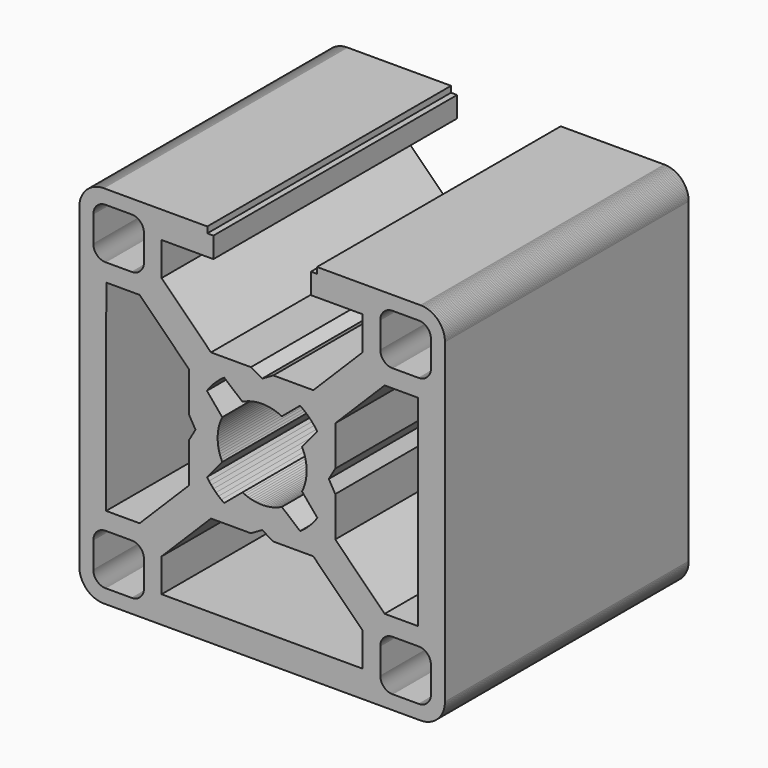
from build123d import *

# Parameters (mm, degrees)
F1_DEPTH = 25


with BuildPart() as f1:
    # F0 (on Front) → F1 (new body)
    with BuildSketch(Plane.XZ):
        Polygon((-15, -13), (-14.997986, -13.089729), (-14.991948, -13.179278), (-14.981899, -13.268467), (-14.967859, -13.357114), (-14.949856, -13.445042), (-14.927926, -13.532074), (-14.902113, -13.618034), (-14.87247, -13.702749), (-14.839056, -13.78605), (-14.801938, -13.867767), (-14.761191, -13.947738), (-14.716898, -14.025799), (-14.669147, -14.101794), (-14.618034, -14.17557), (-14.563663, -14.24698), (-14.506143, -14.315878), (-14.44559, -14.382125), (-14.382125, -14.44559), (-14.315878, -14.506143), (-14.24698, -14.563663), (-14.17557, -14.618034), (-14.101794, -14.669147), (-14.025799, -14.716898), (-13.947738, -14.761191), (-13.867767, -14.801938), (-13.78605, -14.839056), (-13.702749, -14.87247), (-13.618034, -14.902113), (-13.532074, -14.927926), (-13.445042, -14.949856), (-13.357114, -14.967859), (-13.268467, -14.981899), (-13.179278, -14.991948), (-13.089729, -14.997986), (-13, -15), (13, -15), (13.089729, -14.997986), (13.179278, -14.991948), (13.268467, -14.981899), (13.357114, -14.967859), (13.445042, -14.949856), (13.532074, -14.927926), (13.618034, -14.902113), (13.702749, -14.87247), (13.78605, -14.839056), (13.867767, -14.801938), (13.947738, -14.761191), (14.025799, -14.716898), (14.101794, -14.669147), (14.17557, -14.618034), (14.24698, -14.563663), (14.315878, -14.506143), (14.382125, -14.44559), (14.44559, -14.382125), (14.506143, -14.315878), (14.563663, -14.24698), (14.618034, -14.17557), (14.669147, -14.101794), (14.716898, -14.025799), (14.761191, -13.947738), (14.801938, -13.867767), (14.839056, -13.78605), (14.87247, -13.702749), (14.902113, -13.618034), (14.927926, -13.532074), (14.949856, -13.445042), (14.967859, -13.357114), (14.981899, -13.268467), (14.991948, -13.179278), (14.997986, -13.089729), (15, -13), (15, 13), (14.997986, 13.089729), (14.991948, 13.179278), (14.981899, 13.268467), (14.967859, 13.357114), (14.949856, 13.445042), (14.927926, 13.532074), (14.902113, 13.618034), (14.87247, 13.702749), (14.839056, 13.78605), (14.801938, 13.867767), (14.761191, 13.947738), (14.716898, 14.025799), (14.669147, 14.101794), (14.618034, 14.17557), (14.563663, 14.24698), (14.506143, 14.315878), (14.44559, 14.382125), (14.382125, 14.44559), (14.315878, 14.506143), (14.24698, 14.563663), (14.17557, 14.618034), (14.101794, 14.669147), (14.025799, 14.716898), (13.947738, 14.761191), (13.867767, 14.801938), (13.78605, 14.839056), (13.702749, 14.87247), (13.618034, 14.902113), (13.532074, 14.927926), (13.445042, 14.949856), (13.357114, 14.967859), (13.268467, 14.981899), (13.179278, 14.991948), (13.089729, 14.997986), (13, 15), (4.5, 15), (4.5, 14.5), (4, 14.5), (4, 12.8), (8.25, 12.803123), (8.25, 10.053123), (4.196877, 6), (0.919615, 6), (0, 5.46906), (-0.919615, 6), (-4.196877, 6), (-8.25, 10.053123), (-8.25, 12.803123), (-4, 12.8), (-4, 14.5), (-4.5, 14.5), (-4.5, 15), (-13, 15), (-13.089729, 14.997986), (-13.179278, 14.991948), (-13.268467, 14.981899), (-13.357114, 14.967859), (-13.445042, 14.949856), (-13.532074, 14.927926), (-13.618034, 14.902113), (-13.702749, 14.87247), (-13.78605, 14.839056), (-13.867767, 14.801938), (-13.947738, 14.761191), (-14.025799, 14.716898), (-14.101794, 14.669147), (-14.17557, 14.618034), (-14.24698, 14.563663), (-14.315878, 14.506143), (-14.382125, 14.44559), (-14.44559, 14.382125), (-14.506143, 14.315878), (-14.563663, 14.24698), (-14.618034, 14.17557), (-14.669147, 14.101794), (-14.716898, 14.025799), (-14.761191, 13.947738), (-14.801938, 13.867767), (-14.839056, 13.78605), (-14.87247, 13.702749), (-14.902113, 13.618034), (-14.927926, 13.532074), (-14.949856, 13.445042), (-14.967859, 13.357114), (-14.981899, 13.268467), (-14.991948, 13.179278), (-14.997986, 13.089729), (-15, 13), align=None)
        Polygon((-13.845974, -12.939639), (-13.848993, -12.894865), (-13.85, -12.85), (-13.85, -10.7), (-13.848993, -10.655135), (-13.845974, -10.610361), (-13.84095, -10.565766), (-13.83393, -10.521443), (-13.824928, -10.477479), (-13.813963, -10.433963), (-13.801057, -10.390983), (-13.786235, -10.348625), (-13.769527, -10.306975), (-13.750969, -10.266116), (-13.730596, -10.226131), (-13.708448, -10.1871), (-13.684573, -10.149103), (-13.659017, -10.112215), (-13.631831, -10.07651), (-13.603071, -10.042061), (-13.572795, -10.008937), (-13.541062, -9.977205), (-13.507938, -9.946929), (-13.47349, -9.918168), (-13.437785, -9.890983), (-13.400897, -9.865427), (-13.362899, -9.841551), (-13.323869, -9.819405), (-13.283884, -9.799031), (-13.243025, -9.780472), (-13.201375, -9.763765), (-13.159017, -9.748943), (-13.116036, -9.736037), (-13.072521, -9.725072), (-13.028557, -9.71607), (-12.984233, -9.70905), (-12.939639, -9.704025), (-12.894865, -9.701007), (-12.85, -9.7), (-10.7, -9.7), (-10.655135, -9.701007), (-10.610361, -9.704025), (-10.565766, -9.70905), (-10.521443, -9.71607), (-10.477479, -9.725072), (-10.433963, -9.736037), (-10.390983, -9.748943), (-10.348625, -9.763765), (-10.306975, -9.780472), (-10.266116, -9.799031), (-10.226131, -9.819405), (-10.1871, -9.841551), (-10.149103, -9.865427), (-10.112215, -9.890983), (-10.07651, -9.918168), (-10.042061, -9.946929), (-10.008937, -9.977205), (-9.977205, -10.008937), (-9.946929, -10.042061), (-9.918168, -10.07651), (-9.890983, -10.112215), (-9.865427, -10.149103), (-9.841551, -10.1871), (-9.819405, -10.226131), (-9.799031, -10.266116), (-9.780472, -10.306975), (-9.763765, -10.348625), (-9.748943, -10.390983), (-9.736037, -10.433963), (-9.725072, -10.477479), (-9.71607, -10.521443), (-9.70905, -10.565766), (-9.704025, -10.610361), (-9.701007, -10.655135), (-9.7, -10.7), (-9.7, -12.85), (-9.701007, -12.894865), (-9.704025, -12.939639), (-9.70905, -12.984233), (-9.71607, -13.028557), (-9.725072, -13.072521), (-9.736037, -13.116036), (-9.748943, -13.159017), (-9.763765, -13.201375), (-9.780472, -13.243025), (-9.799031, -13.283884), (-9.819405, -13.323869), (-9.841551, -13.362899), (-9.865427, -13.400897), (-9.890983, -13.437785), (-9.918168, -13.47349), (-9.946929, -13.507938), (-9.977205, -13.541062), (-10.008937, -13.572795), (-10.042061, -13.603071), (-10.07651, -13.631831), (-10.112215, -13.659017), (-10.149103, -13.684573), (-10.1871, -13.708448), (-10.226131, -13.730596), (-10.266116, -13.750969), (-10.306975, -13.769527), (-10.348625, -13.786235), (-10.390983, -13.801057), (-10.433963, -13.813963), (-10.477479, -13.824928), (-10.521443, -13.83393), (-10.565766, -13.84095), (-10.610361, -13.845974), (-10.655135, -13.848993), (-10.7, -13.85), (-12.85, -13.85), (-12.894865, -13.848993), (-12.939639, -13.845974), (-12.984233, -13.84095), (-13.028557, -13.83393), (-13.072521, -13.824928), (-13.116036, -13.813963), (-13.159017, -13.801057), (-13.201375, -13.786235), (-13.243025, -13.769527), (-13.283884, -13.750969), (-13.323869, -13.730596), (-13.362899, -13.708448), (-13.400897, -13.684573), (-13.437785, -13.659017), (-13.47349, -13.631831), (-13.507938, -13.603071), (-13.541062, -13.572795), (-13.572795, -13.541062), (-13.603071, -13.507938), (-13.631831, -13.47349), (-13.659017, -13.437785), (-13.684573, -13.400897), (-13.708448, -13.362899), (-13.730596, -13.323869), (-13.750969, -13.283884), (-13.769527, -13.243025), (-13.786235, -13.201375), (-13.801057, -13.159017), (-13.813963, -13.116036), (-13.824928, -13.072521), (-13.83393, -13.028557), (-13.84095, -12.984233), align=None, mode=Mode.SUBTRACT)
        Polygon((4.196877, -6), (8.25, -10.053123), (8.25, -12.803123), (-8.25, -12.790998), (-8.25, -10.053123), (-4.196877, -6), (-0.919615, -6), (0, -5.46906), (0.919615, -6), align=None, mode=Mode.SUBTRACT)
        Polygon((9.704025, -12.939639), (9.701007, -12.894865), (9.7, -12.85), (9.7, -10.7), (9.701007, -10.655135), (9.704025, -10.610361), (9.70905, -10.565766), (9.71607, -10.521443), (9.725072, -10.477479), (9.736037, -10.433963), (9.748943, -10.390983), (9.763765, -10.348625), (9.780472, -10.306975), (9.799031, -10.266116), (9.819405, -10.226131), (9.841551, -10.1871), (9.865427, -10.149103), (9.890983, -10.112215), (9.918168, -10.07651), (9.946929, -10.042061), (9.977205, -10.008937), (10.008937, -9.977205), (10.042061, -9.946929), (10.07651, -9.918168), (10.112215, -9.890983), (10.149103, -9.865427), (10.1871, -9.841551), (10.226131, -9.819405), (10.266116, -9.799031), (10.306975, -9.780472), (10.348625, -9.763765), (10.390983, -9.748943), (10.433963, -9.736037), (10.477479, -9.725072), (10.521443, -9.71607), (10.565766, -9.70905), (10.610361, -9.704025), (10.655135, -9.701007), (10.7, -9.7), (12.85, -9.7), (12.894865, -9.701007), (12.939639, -9.704025), (12.984233, -9.70905), (13.028557, -9.71607), (13.072521, -9.725072), (13.116036, -9.736037), (13.159017, -9.748943), (13.201375, -9.763765), (13.243025, -9.780472), (13.283884, -9.799031), (13.323869, -9.819405), (13.362899, -9.841551), (13.400897, -9.865427), (13.437785, -9.890983), (13.47349, -9.918168), (13.507938, -9.946929), (13.541062, -9.977205), (13.572795, -10.008937), (13.603071, -10.042061), (13.631831, -10.07651), (13.659017, -10.112215), (13.684573, -10.149103), (13.708448, -10.1871), (13.730596, -10.226131), (13.750969, -10.266116), (13.769527, -10.306975), (13.786235, -10.348625), (13.801057, -10.390983), (13.813963, -10.433963), (13.824928, -10.477479), (13.83393, -10.521443), (13.84095, -10.565766), (13.845974, -10.610361), (13.848993, -10.655135), (13.85, -10.7), (13.85, -12.85), (13.848993, -12.894865), (13.845974, -12.939639), (13.84095, -12.984233), (13.83393, -13.028557), (13.824928, -13.072521), (13.813963, -13.116036), (13.801057, -13.159017), (13.786235, -13.201375), (13.769527, -13.243025), (13.750969, -13.283884), (13.730596, -13.323869), (13.708448, -13.362899), (13.684573, -13.400897), (13.659017, -13.437785), (13.631831, -13.47349), (13.603071, -13.507938), (13.572795, -13.541062), (13.541062, -13.572795), (13.507938, -13.603071), (13.47349, -13.631831), (13.437785, -13.659017), (13.400897, -13.684573), (13.362899, -13.708448), (13.323869, -13.730596), (13.283884, -13.750969), (13.243025, -13.769527), (13.201375, -13.786235), (13.159017, -13.801057), (13.116036, -13.813963), (13.072521, -13.824928), (13.028557, -13.83393), (12.984233, -13.84095), (12.939639, -13.845974), (12.894865, -13.848993), (12.85, -13.85), (10.7, -13.85), (10.655135, -13.848993), (10.610361, -13.845974), (10.565766, -13.84095), (10.521443, -13.83393), (10.477479, -13.824928), (10.433963, -13.813963), (10.390983, -13.801057), (10.348625, -13.786235), (10.306975, -13.769527), (10.266116, -13.750969), (10.226131, -13.730596), (10.1871, -13.708448), (10.149103, -13.684573), (10.112215, -13.659017), (10.07651, -13.631831), (10.042061, -13.603071), (10.008937, -13.572795), (9.977205, -13.541062), (9.946929, -13.507938), (9.918168, -13.47349), (9.890983, -13.437785), (9.865427, -13.400897), (9.841551, -13.362899), (9.819405, -13.323869), (9.799031, -13.283884), (9.780472, -13.243025), (9.763765, -13.201375), (9.748943, -13.159017), (9.736037, -13.116036), (9.725072, -13.072521), (9.71607, -13.028557), (9.70905, -12.984233), align=None, mode=Mode.SUBTRACT)
        Polygon((-6, 0.919615), (-5.46906, 0), (-6, -0.919615), (-6, -4.196877), (-10.053123, -8.25), (-12.803123, -8.25), (-12.790998, 8.25), (-10.053123, 8.25), (-6, 4.196877), align=None, mode=Mode.SUBTRACT)
        Polygon((-13.845974, 10.610361), (-13.848993, 10.655135), (-13.85, 10.7), (-13.85, 12.85), (-13.848993, 12.894865), (-13.845974, 12.939639), (-13.84095, 12.984233), (-13.83393, 13.028557), (-13.824928, 13.072521), (-13.813963, 13.116036), (-13.801057, 13.159017), (-13.786235, 13.201375), (-13.769527, 13.243025), (-13.750969, 13.283884), (-13.730596, 13.323869), (-13.708448, 13.362899), (-13.684573, 13.400897), (-13.659017, 13.437785), (-13.631831, 13.47349), (-13.603071, 13.507938), (-13.572795, 13.541062), (-13.541062, 13.572795), (-13.507938, 13.603071), (-13.47349, 13.631831), (-13.437785, 13.659017), (-13.400897, 13.684573), (-13.362899, 13.708448), (-13.323869, 13.730596), (-13.283884, 13.750969), (-13.243025, 13.769527), (-13.201375, 13.786235), (-13.159017, 13.801057), (-13.116036, 13.813963), (-13.072521, 13.824928), (-13.028557, 13.83393), (-12.984233, 13.84095), (-12.939639, 13.845974), (-12.894865, 13.848993), (-12.85, 13.85), (-10.7, 13.85), (-10.655135, 13.848993), (-10.610361, 13.845974), (-10.565766, 13.84095), (-10.521443, 13.83393), (-10.477479, 13.824928), (-10.433963, 13.813963), (-10.390983, 13.801057), (-10.348625, 13.786235), (-10.306975, 13.769527), (-10.266116, 13.750969), (-10.226131, 13.730596), (-10.1871, 13.708448), (-10.149103, 13.684573), (-10.112215, 13.659017), (-10.07651, 13.631831), (-10.042061, 13.603071), (-10.008937, 13.572795), (-9.977205, 13.541062), (-9.946929, 13.507938), (-9.918168, 13.47349), (-9.890983, 13.437785), (-9.865427, 13.400897), (-9.841551, 13.362899), (-9.819405, 13.323869), (-9.799031, 13.283884), (-9.780472, 13.243025), (-9.763765, 13.201375), (-9.748943, 13.159017), (-9.736037, 13.116036), (-9.725072, 13.072521), (-9.71607, 13.028557), (-9.70905, 12.984233), (-9.704025, 12.939639), (-9.701007, 12.894865), (-9.7, 12.85), (-9.7, 10.7), (-9.701007, 10.655135), (-9.704025, 10.610361), (-9.70905, 10.565766), (-9.71607, 10.521443), (-9.725072, 10.477479), (-9.736037, 10.433963), (-9.748943, 10.390983), (-9.763765, 10.348625), (-9.780472, 10.306975), (-9.799031, 10.266116), (-9.819405, 10.226131), (-9.841551, 10.1871), (-9.865427, 10.149103), (-9.890983, 10.112215), (-9.918168, 10.07651), (-9.946929, 10.042061), (-9.977205, 10.008937), (-10.008937, 9.977205), (-10.042061, 9.946929), (-10.07651, 9.918168), (-10.112215, 9.890983), (-10.149103, 9.865427), (-10.1871, 9.841551), (-10.226131, 9.819405), (-10.266116, 9.799031), (-10.306975, 9.780472), (-10.348625, 9.763765), (-10.390983, 9.748943), (-10.433963, 9.736037), (-10.477479, 9.725072), (-10.521443, 9.71607), (-10.565766, 9.70905), (-10.610361, 9.704025), (-10.655135, 9.701007), (-10.7, 9.7), (-12.85, 9.7), (-12.894865, 9.701007), (-12.939639, 9.704025), (-12.984233, 9.70905), (-13.028557, 9.71607), (-13.072521, 9.725072), (-13.116036, 9.736037), (-13.159017, 9.748943), (-13.201375, 9.763765), (-13.243025, 9.780472), (-13.283884, 9.799031), (-13.323869, 9.819405), (-13.362899, 9.841551), (-13.400897, 9.865427), (-13.437785, 9.890983), (-13.47349, 9.918168), (-13.507938, 9.946929), (-13.541062, 9.977205), (-13.572795, 10.008937), (-13.603071, 10.042061), (-13.631831, 10.07651), (-13.659017, 10.112215), (-13.684573, 10.149103), (-13.708448, 10.1871), (-13.730596, 10.226131), (-13.750969, 10.266116), (-13.769527, 10.306975), (-13.786235, 10.348625), (-13.801057, 10.390983), (-13.813963, 10.433963), (-13.824928, 10.477479), (-13.83393, 10.521443), (-13.84095, 10.565766), align=None, mode=Mode.SUBTRACT)
        Polygon((-3.623419, -0.439702), (-3.640423, -0.264232), (-3.648936, -0.088146), (-3.648936, 0.088146), (-3.640423, 0.264232), (-3.623419, 0.439702), (-3.597961, 0.614146), (-3.564111, 0.787157), (-3.521945, 0.958332), (-3.471564, 1.127272), (-3.413085, 1.293582), (-3.346643, 1.456874), (-3.272394, 1.616767), (-4.531372, 3.117158), (-4.362428, 3.349511), (-4.181583, 3.572725), (-3.98933, 3.786192), (-3.786192, 3.98933), (-3.572725, 4.181583), (-3.349511, 4.362428), (-3.117158, 4.531372), (-1.616767, 3.272394), (-1.456874, 3.346643), (-1.293582, 3.413085), (-1.127272, 3.471564), (-0.958332, 3.521945), (-0.787157, 3.564111), (-0.614146, 3.597961), (-0.439702, 3.623419), (-0.264232, 3.640423), (-0.088146, 3.648936), (0.088146, 3.648936), (0.264232, 3.640423), (0.439702, 3.623419), (0.614146, 3.597961), (0.787157, 3.564111), (0.958332, 3.521945), (1.127272, 3.471564), (1.293582, 3.413085), (1.456874, 3.346643), (1.616767, 3.272394), (3.117158, 4.531372), (3.349511, 4.362428), (3.572725, 4.181583), (3.786192, 3.98933), (3.98933, 3.786192), (4.181583, 3.572725), (4.362428, 3.349511), (4.531372, 3.117158), (3.272394, 1.616767), (3.346643, 1.456874), (3.413085, 1.293582), (3.471564, 1.127272), (3.521945, 0.958332), (3.564111, 0.787157), (3.597961, 0.614146), (3.623419, 0.439702), (3.640423, 0.264232), (3.648936, 0.088146), (3.648936, -0.088146), (3.640423, -0.264232), (3.623419, -0.439702), (3.597961, -0.614146), (3.564111, -0.787157), (3.521945, -0.958332), (3.471564, -1.127272), (3.413085, -1.293582), (3.346643, -1.456874), (3.272394, -1.616767), (4.531372, -3.117158), (4.362428, -3.349511), (4.181583, -3.572725), (3.98933, -3.786192), (3.786192, -3.98933), (3.572725, -4.181583), (3.349511, -4.362428), (3.117158, -4.531372), (1.616767, -3.272394), (1.456874, -3.346643), (1.293582, -3.413085), (1.127272, -3.471564), (0.958332, -3.521945), (0.787157, -3.564111), (0.614146, -3.597961), (0.439702, -3.623419), (0.264232, -3.640423), (0.088146, -3.648936), (-0.088146, -3.648936), (-0.264232, -3.640423), (-0.439702, -3.623419), (-0.614146, -3.597961), (-0.787157, -3.564111), (-0.958332, -3.521945), (-1.127272, -3.471564), (-1.293582, -3.413085), (-1.456874, -3.346643), (-1.616767, -3.272394), (-3.117158, -4.531372), (-3.349511, -4.362428), (-3.572725, -4.181583), (-3.786192, -3.98933), (-3.98933, -3.786192), (-4.181583, -3.572725), (-4.362428, -3.349511), (-4.531372, -3.117158), (-3.272394, -1.616767), (-3.346643, -1.456874), (-3.413085, -1.293582), (-3.471564, -1.127272), (-3.521945, -0.958332), (-3.564111, -0.787157), (-3.597961, -0.614146), align=None, mode=Mode.SUBTRACT)
        Polygon((6, -4.196877), (6, -0.919615), (5.46906, 0), (6, 0.919615), (6, 4.196877), (10.053123, 8.25), (12.803123, 8.25), (12.790998, -8.25), (10.053123, -8.25), align=None, mode=Mode.SUBTRACT)
        Polygon((9.704025, 10.610361), (9.701007, 10.655135), (9.7, 10.7), (9.7, 12.85), (9.701007, 12.894865), (9.704025, 12.939639), (9.70905, 12.984233), (9.71607, 13.028557), (9.725072, 13.072521), (9.736037, 13.116036), (9.748943, 13.159017), (9.763765, 13.201375), (9.780472, 13.243025), (9.799031, 13.283884), (9.819405, 13.323869), (9.841551, 13.362899), (9.865427, 13.400897), (9.890983, 13.437785), (9.918168, 13.47349), (9.946929, 13.507938), (9.977205, 13.541062), (10.008937, 13.572795), (10.042061, 13.603071), (10.07651, 13.631831), (10.112215, 13.659017), (10.149103, 13.684573), (10.1871, 13.708448), (10.226131, 13.730596), (10.266116, 13.750969), (10.306975, 13.769527), (10.348625, 13.786235), (10.390983, 13.801057), (10.433963, 13.813963), (10.477479, 13.824928), (10.521443, 13.83393), (10.565766, 13.84095), (10.610361, 13.845974), (10.655135, 13.848993), (10.7, 13.85), (12.85, 13.85), (12.894865, 13.848993), (12.939639, 13.845974), (12.984233, 13.84095), (13.028557, 13.83393), (13.072521, 13.824928), (13.116036, 13.813963), (13.159017, 13.801057), (13.201375, 13.786235), (13.243025, 13.769527), (13.283884, 13.750969), (13.323869, 13.730596), (13.362899, 13.708448), (13.400897, 13.684573), (13.437785, 13.659017), (13.47349, 13.631831), (13.507938, 13.603071), (13.541062, 13.572795), (13.572795, 13.541062), (13.603071, 13.507938), (13.631831, 13.47349), (13.659017, 13.437785), (13.684573, 13.400897), (13.708448, 13.362899), (13.730596, 13.323869), (13.750969, 13.283884), (13.769527, 13.243025), (13.786235, 13.201375), (13.801057, 13.159017), (13.813963, 13.116036), (13.824928, 13.072521), (13.83393, 13.028557), (13.84095, 12.984233), (13.845974, 12.939639), (13.848993, 12.894865), (13.85, 12.85), (13.85, 10.7), (13.848993, 10.655135), (13.845974, 10.610361), (13.84095, 10.565766), (13.83393, 10.521443), (13.824928, 10.477479), (13.813963, 10.433963), (13.801057, 10.390983), (13.786235, 10.348625), (13.769527, 10.306975), (13.750969, 10.266116), (13.730596, 10.226131), (13.708448, 10.1871), (13.684573, 10.149103), (13.659017, 10.112215), (13.631831, 10.07651), (13.603071, 10.042061), (13.572795, 10.008937), (13.541062, 9.977205), (13.507938, 9.946929), (13.47349, 9.918168), (13.437785, 9.890983), (13.400897, 9.865427), (13.362899, 9.841551), (13.323869, 9.819405), (13.283884, 9.799031), (13.243025, 9.780472), (13.201375, 9.763765), (13.159017, 9.748943), (13.116036, 9.736037), (13.072521, 9.725072), (13.028557, 9.71607), (12.984233, 9.70905), (12.939639, 9.704025), (12.894865, 9.701007), (12.85, 9.7), (10.7, 9.7), (10.655135, 9.701007), (10.610361, 9.704025), (10.565766, 9.70905), (10.521443, 9.71607), (10.477479, 9.725072), (10.433963, 9.736037), (10.390983, 9.748943), (10.348625, 9.763765), (10.306975, 9.780472), (10.266116, 9.799031), (10.226131, 9.819405), (10.1871, 9.841551), (10.149103, 9.865427), (10.112215, 9.890983), (10.07651, 9.918168), (10.042061, 9.946929), (10.008937, 9.977205), (9.977205, 10.008937), (9.946929, 10.042061), (9.918168, 10.07651), (9.890983, 10.112215), (9.865427, 10.149103), (9.841551, 10.1871), (9.819405, 10.226131), (9.799031, 10.266116), (9.780472, 10.306975), (9.763765, 10.348625), (9.748943, 10.390983), (9.736037, 10.433963), (9.725072, 10.477479), (9.71607, 10.521443), (9.70905, 10.565766), align=None, mode=Mode.SUBTRACT)
    extrude(amount=F1_DEPTH)


solid = f1.part
